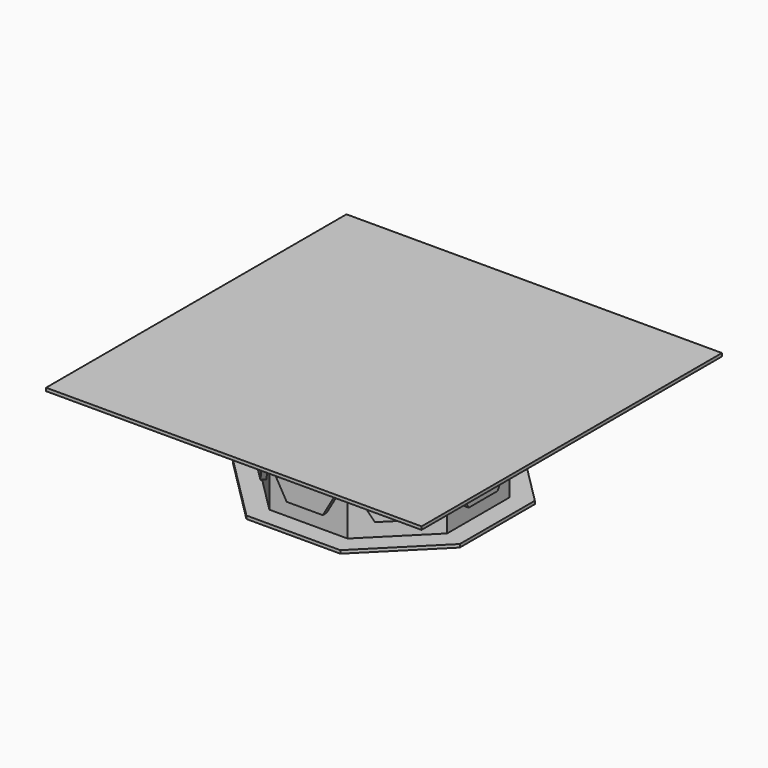
from build123d import *

# Parameters (mm, degrees)
F2_DEPTH = 15
F4_DEPTH = 1.5
F5_COUNT = 8
F6_W     = 120
F6_H     = 120
F7_DEPTH = 1
F9_DEPTH = 1


with BuildPart() as f2:
    # F1 (on Top) → F2 (new body, symmetric)
    with BuildSketch(Plane.XY):
        Polygon((12.5, -30.1776695297), (30.1776695297, -12.5), (30.1776695297, 12.5), (12.5, 30.1776695297), (-12.5, 30.1776695297), (-30.1776695297, 12.5), (-30.1776695297, -12.5), (-12.5, -30.1776695297), align=None)
    extrude(amount=F2_DEPTH, both=True)

    # F8 (on face) → F9 (join)
    with BuildSketch(Plane(origin=(0, 0, -15), x_dir=(1, 0, 0), z_dir=(0, 0, -1))):
        Polygon((36.2132034356, -15), (36.2132034356, 15), (15, 36.2132034356), (-15, 36.2132034356), (-36.2132034356, 15), (-36.2132034356, -15), (-15, -36.2132034356), (15, -36.2132034356), align=None)
    extrude(amount=F9_DEPTH)


with BuildPart() as f4:
    # F3 (on face) → F4 (new body)
    with BuildSketch(Plane.XZ.offset(30.1776695297)):
        Polygon((5.7735026919, -10), (11.5470053838, 0), (5.7735026919, 10), (-5.7735026919, 10), (-11.5470053838, 0), (-5.7735026919, -10), align=None)
    extrude(amount=F4_DEPTH)


with BuildPart() as f5_1:
    # F5: instance of F4
    add(f4.part.rotate(Axis((0, 0, 3.3915452659), (0, 0, -1)), 1 * 360 / F5_COUNT))


with BuildPart() as f5_2:
    # F5: instance of F4
    add(f4.part.rotate(Axis((0, 0, 3.3915452659), (0, 0, -1)), 2 * 360 / F5_COUNT))


with BuildPart() as f5_3:
    # F5: instance of F4
    add(f4.part.rotate(Axis((0, 0, 3.3915452659), (0, 0, -1)), 3 * 360 / F5_COUNT))


with BuildPart() as f5_4:
    # F5: instance of F4
    add(f4.part.rotate(Axis((0, 0, 3.3915452659), (0, 0, -1)), 4 * 360 / F5_COUNT))


with BuildPart() as f5_5:
    # F5: instance of F4
    add(f4.part.rotate(Axis((0, 0, 3.3915452659), (0, 0, -1)), 5 * 360 / F5_COUNT))


with BuildPart() as f5_6:
    # F5: instance of F4
    add(f4.part.rotate(Axis((0, 0, 3.3915452659), (0, 0, -1)), 6 * 360 / F5_COUNT))


with BuildPart() as f5_7:
    # F5: instance of F4
    add(f4.part.rotate(Axis((0, 0, 3.3915452659), (0, 0, -1)), 7 * 360 / F5_COUNT))


with BuildPart() as f7:
    # F6 (on face) → F7 (new body)
    with BuildSketch(Plane.XY.offset(15)):
        Rectangle(F6_W, F6_H)
        Polygon((30.1776695297, -12.5), (12.5, -30.1776695297), (-12.5, -30.1776695297), (-30.1776695297, -12.5), (-30.1776695297, 12.5), (-12.5, 30.1776695297), (12.5, 30.1776695297), (30.1776695297, 12.5), align=None, mode=Mode.SUBTRACT)
        Polygon((-12.5, -30.1776695297), (12.5, -30.1776695297), (30.1776695297, -12.5), (30.1776695297, 12.5), (12.5, 30.1776695297), (-12.5, 30.1776695297), (-30.1776695297, 12.5), (-30.1776695297, -12.5), align=None)
    extrude(amount=F7_DEPTH)


solid = Compound([f2.part, f4.part, f5_1.part, f5_2.part, f5_3.part, f5_4.part, f5_5.part, f5_6.part, f5_7.part, f7.part])
